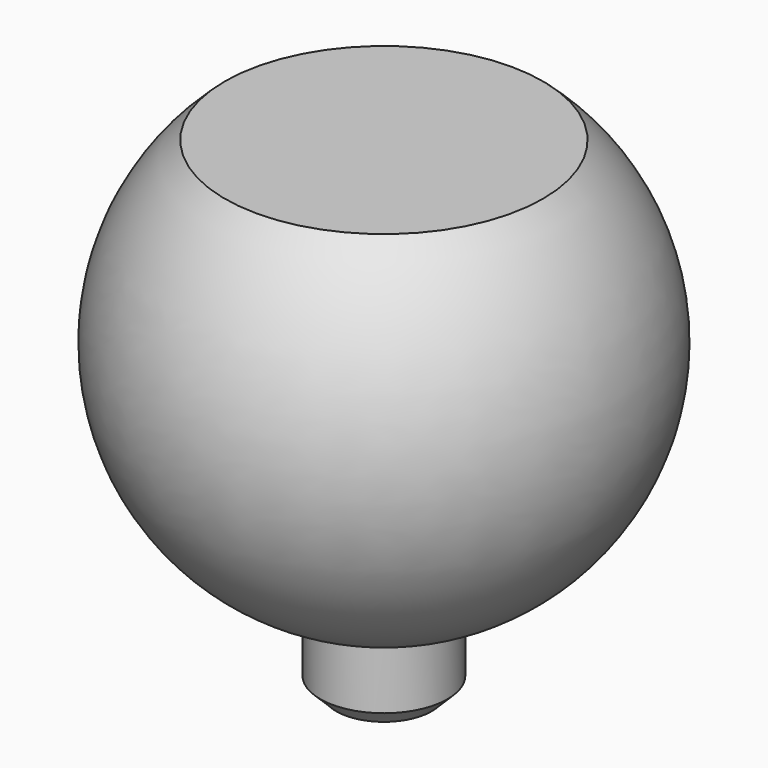
from build123d import *

# Parameters (mm, degrees)
CHAMFER_SIZE    = 1
SKETCH010_R     = 2
POCKET001_DEPTH = 10


with BuildPart() as part:
    # Sketch009 → Revolution001 (revolve)
    with BuildSketch(Plane(origin=(0, -42, 96), x_dir=(0, 1, 0), z_dir=(1, 0, 0))):
        with BuildLine():
            ThreePointArc((4, 5.2), (14.605347, 16.238667), (10, 30.837172))
            Line((0, 30.837172), (10, 30.837172))
            Line((0, 0.2), (0, 30.837172))
            Line((4, 0.2), (0, 0.2))
            Line((4, 5.2), (4, 0.2))
        make_face()
    revolve(axis=Axis((0, -42, 96), (0, 0, 1)))

    # Chamfer
    chamfer_edges = [part.edges().sort_by_distance(p)[0] for p in [
        (0, -46, 96.2),
    ]]
    chamfer(chamfer_edges, length=CHAMFER_SIZE)

    # Sketch010 → Pocket001 (cut)
    with BuildSketch(Plane(origin=(0, -42, 96.2), x_dir=(0, 1, 0), z_dir=(0, 0, -1))):
        Circle(SKETCH010_R)
    extrude(amount=-POCKET001_DEPTH, mode=Mode.SUBTRACT)


solid = part.part
